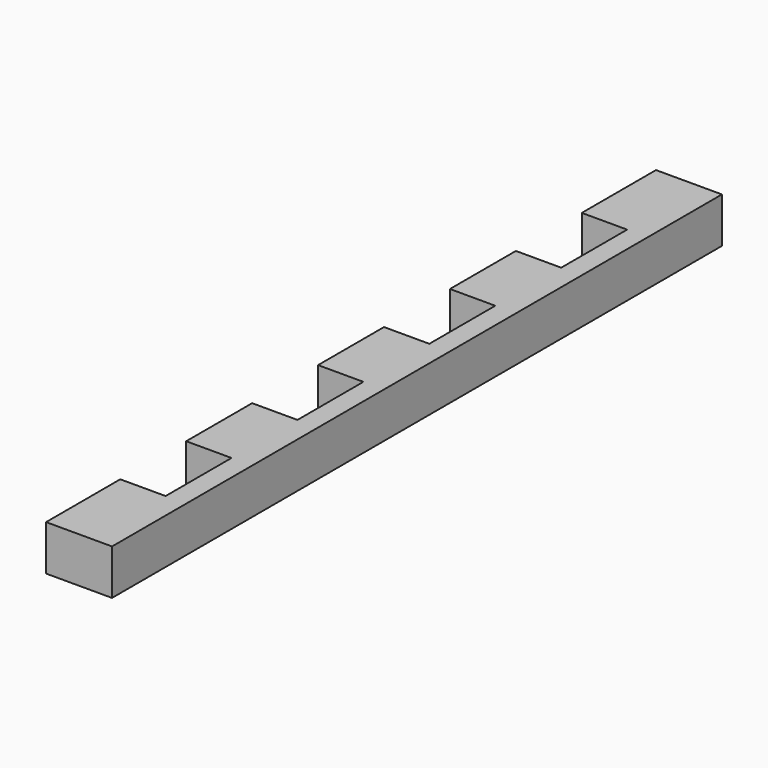
from build123d import *

# Parameters (mm, degrees)
F1_DEPTH = 6.985


with BuildPart() as f1:
    # F0 (on Top) → F1 (new body)
    with BuildSketch(Plane.XY):
        Polygon((10.16, 0), (0, 0), (0, -14.2875), (6.985, -14.2875), (6.985, -26.9875), (0, -26.9875), (0, -39.6875), (6.985, -39.6875), (6.985, -52.3875), (0, -52.3875), (0, -65.0875), (6.985, -65.0875), (6.985, -77.7875), (0, -77.7875), (0, -90.4875), (6.985, -90.4875), (6.985, -103.1875), (0, -103.1875), (0, -117.475), (10.16, -117.475), align=None)
    extrude(amount=F1_DEPTH)


solid = f1.part
